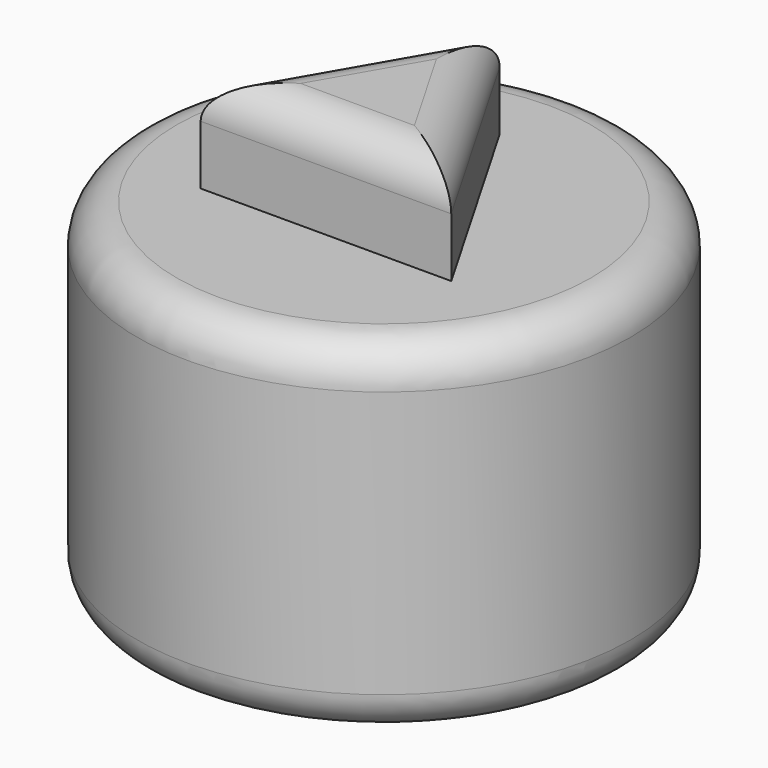
from build123d import *

# Parameters (mm, degrees)
F0_R     = 31.75
F1_DEPTH = 44.45
F3_DEPTH = 12.7
F4_R     = 5.08


with BuildPart() as f1:
    # F0 (on Top) → F1 (new body)
    with BuildSketch(Plane.XY):
        Circle(F0_R)
    extrude(amount=F1_DEPTH)

    # F2 (on face) → F3 (join)
    with BuildSketch(Plane.XY.offset(44.45)):
        Polygon((-16.125254, -9.30992), (16.125254, -9.30992), (0, 18.619839), align=None)
    extrude(amount=F3_DEPTH)

    # F4
    f4_edges = [f1.edges().sort_by_distance(p)[0] for p in [
        (-31.75, 0, 0),
        (-31.75, 0, 44.45),
        (0, -9.30992, 57.15),
        (-8.062627, 4.65496, 57.15),
        (8.062627, 4.65496, 57.15),
    ]]
    fillet(f4_edges, radius=F4_R)


solid = f1.part
